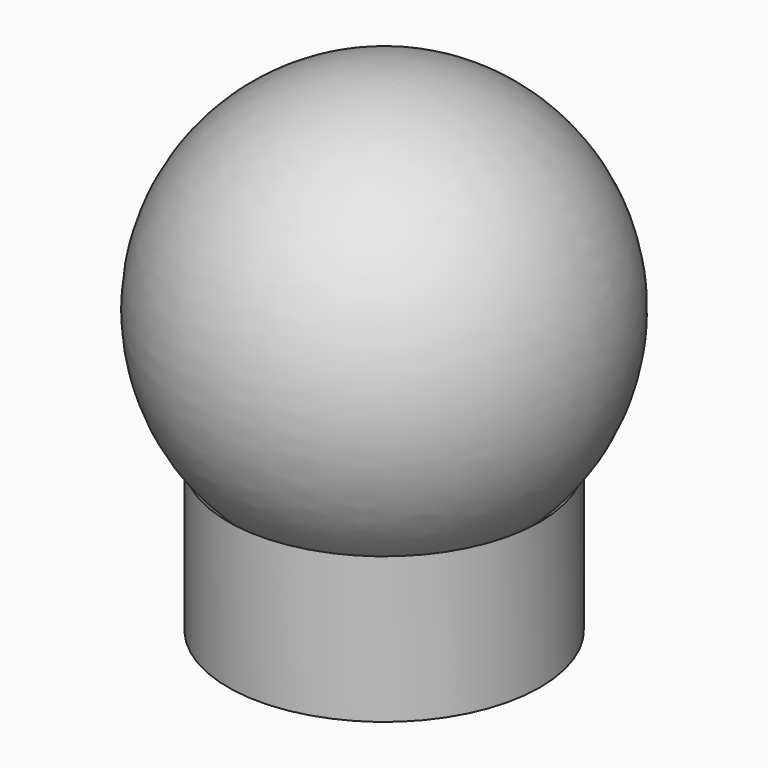
from build123d import *


with BuildPart() as f3:
    # F1 (on Front) → F3 (revolve)
    with BuildSketch(Plane.XZ):
        with BuildLine():
            ThreePointArc((57.531, -12.492566), (67.893035, 1.147696), (55.245, 12.7))
            Line((55.245, 12.7), (55.245, -12.446))
            Line((55.245, -12.446), (55.245, -12.7))
            ThreePointArc((55.245, -12.7), (56.392696, -12.648035), (57.531, -12.492566))
        make_face()
        with BuildLine():
            Line((57.531, -17.4625), (57.531, -12.621653))
            ThreePointArc((57.531, -12.621653), (56.392602, -12.77556), (55.245, -12.827))
            Line((55.245, -12.827), (55.245, -17.4625))
            Line((55.245, -17.4625), (57.531, -17.4625))
        make_face()
        with BuildLine():
            ThreePointArc((59.817, -11.984521), (59.187338, -12.206142), (58.547, -12.394706))
            Line((58.547, -12.394706), (58.547, -17.4625))
            Line((58.547, -17.4625), (59.817, -17.4625))
            Line((59.817, -17.4625), (59.817, -11.984521))
        make_face()
        with BuildLine():
            ThreePointArc((62.103, -10.839731), (61.478007, -11.210779), (60.833, -11.54583))
            Line((60.833, -11.54583), (60.833, -17.4625))
            Line((60.833, -17.4625), (62.103, -17.4625))
            Line((62.103, -17.4625), (62.103, -10.839731))
        make_face()
        with BuildLine():
            ThreePointArc((64.897, -8.448126), (64.048058, -9.329421), (63.119, -10.125811))
            Line((63.119, -10.125811), (63.119, -17.4625))
            Line((63.119, -17.4625), (64.897, -17.4625))
            Line((64.897, -17.4625), (64.897, -8.448126))
        make_face()
    revolve(axis=Axis((55.245, 0, -0.33118), (0, 0, -1)))


solid = f3.part
